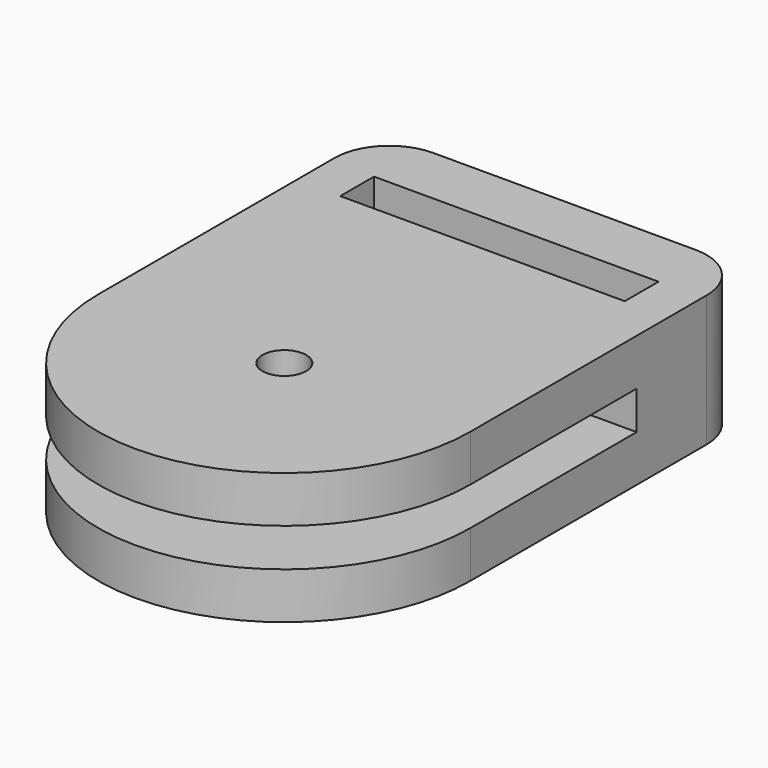
from build123d import *

# Parameters (mm, degrees)
F0_W          = 34
F0_H          = 12
F1_DEPTH      = 15
F2_W          = 26
F2_H          = 3.8571179805
F3_DEPTH      = 25
F5_DEPTH      = 6
F5_DEPTH_BACK = 6
F6_R          = 2
F7_DEPTH      = 25
F9_DEPTH      = 1.75
F9_DEPTH_BACK = 1.75
F10_R         = 5


with BuildPart() as f1:
    # F0 (on Front) → F1 (new body)
    with BuildSketch(Plane.XZ):
        Rectangle(F0_W, F0_H)
    extrude(amount=F1_DEPTH)

    # F2 (on face) → F3 (cut)
    with BuildSketch(Plane(origin=(0, 0, -6), x_dir=(1, 0, 0), z_dir=(0, 0, -1))):
        with Locations((0, 7.4285589902)):
            Rectangle(F2_W, F2_H)
    extrude(amount=-F3_DEPTH, mode=Mode.SUBTRACT)

    # F4 (on Top) → F5 (join, two sides)
    with BuildSketch(Plane.XY) as f5_sk:
        with BuildLine():
            Line((-17, -15), (-17, -32))
            ThreePointArc((-17, -32), (0, -49), (17, -32))
            Line((17, -32), (17, -15))
            Line((17, -15), (-17, -15))
        make_face()
    extrude(amount=F5_DEPTH)
    extrude(f5_sk.sketch, amount=-F5_DEPTH_BACK)

    # F6 (on face) → F7 (cut)
    with BuildSketch(Plane.XY.offset(6)):
        with Locations((0, -32)):
            Circle(F6_R)
    extrude(amount=-F7_DEPTH, mode=Mode.SUBTRACT)

    # F8 (on Top) → F9 (cut, two sides)
    with BuildSketch(Plane.XY) as f9_sk:
        with BuildLine():
            Line((-17, -13), (-17, -32))
            ThreePointArc((-17, -32), (0, -49), (17, -32))
            Line((17, -32), (17, -13))
            Line((17, -13), (0, -13))
            Line((0, -13), (-17, -13))
        make_face()
    extrude(amount=-F9_DEPTH, mode=Mode.SUBTRACT)
    extrude(f9_sk.sketch, amount=F9_DEPTH_BACK, mode=Mode.SUBTRACT)

    # F10
    f10_edges = [f1.edges().sort_by_distance(p)[0] for p in [
        (-17, 0, 0),
        (17, 0, 0),
    ]]
    fillet(f10_edges, radius=F10_R)


solid = f1.part
